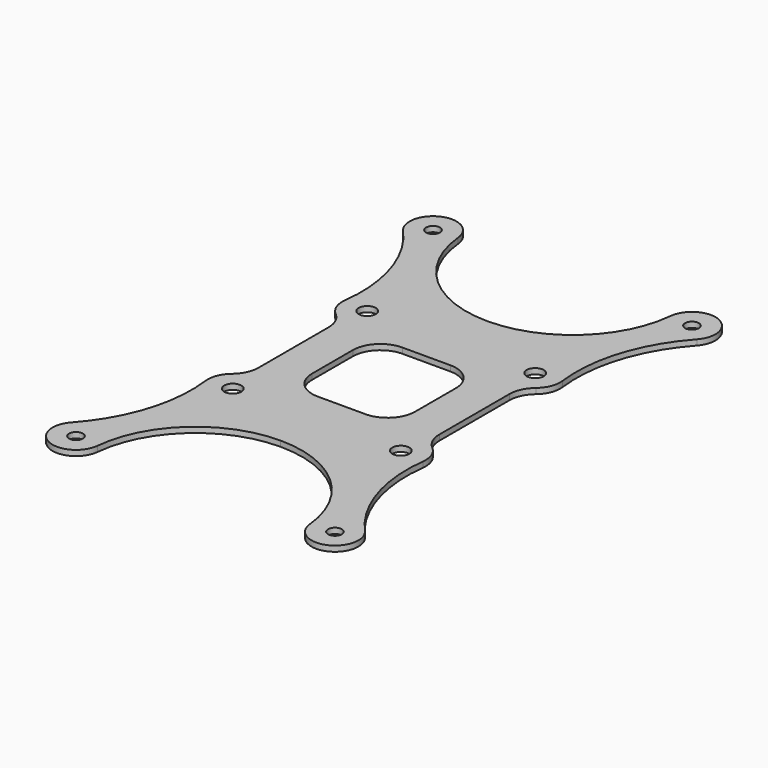
from build123d import *

# Parameters (mm, degrees)
F0_R     = 1.55
F0_R_2   = 1.25
F1_DEPTH = 1
F2_R     = 5


with BuildPart() as f1:
    # F0 (on Top) → F1 (new body)
    with BuildSketch(Plane.XY):
        with BuildLine():
            ThreePointArc((0, 23.458341), (-13.001904, 28.47242), (-19.270611, 40.918055))
            ThreePointArc((-19.270611, 40.918055), (-25.220675, 44.3861), (-26.652391, 37.649574))
            ThreePointArc((-26.652391, 37.649574), (-20.826638, 27.482582), (-19.764921, 15.812969))
            ThreePointArc((-19.764921, 15.812969), (-19.018125, 12.699808), (-16.405741, 10.849155))
            Line((-16.405741, 10.849155), (-16.405741, 0))
            Line((-16.405741, 0), (-9.353283, 0))
            Line((-9.353283, 0), (-9.353283, 9.622366))
            Line((-9.353283, 9.622366), (0, 9.622366))
            Line((0, 9.622366), (0, 23.458341))
        make_face()
        with Locations((-15.249896, 15.249896)):
            Circle(F0_R, mode=Mode.SUBTRACT)
        with Locations((-23.5, 40.5)):
            Circle(F0_R_2, mode=Mode.SUBTRACT)
    extrude(amount=F1_DEPTH)

    # F2
    f2_edges = [f1.edges().sort_by_distance(p)[0] for p in [
        (-9.353283, 9.622366, 0.5),
        (-16.405741, 10.849155, 0.5),
    ]]
    fillet(f2_edges, radius=F2_R)

    # F3: F1 across face


with BuildPart() as f1_1:
    add(f1.part)
    add(f1.part.mirror(Plane(origin=(-12.879512, 0, 0.5), x_dir=(1, 0, 0), z_dir=(0, -1, 0))))

    # F4: F1 across face


with BuildPart() as f1_2:
    add(f1_1.part)
    add(f1_1.part.mirror(Plane(origin=(0, 16.540354, 0.5), x_dir=(0, 1, 0), z_dir=(1, 0, 0))))


solid = f1_2.part
